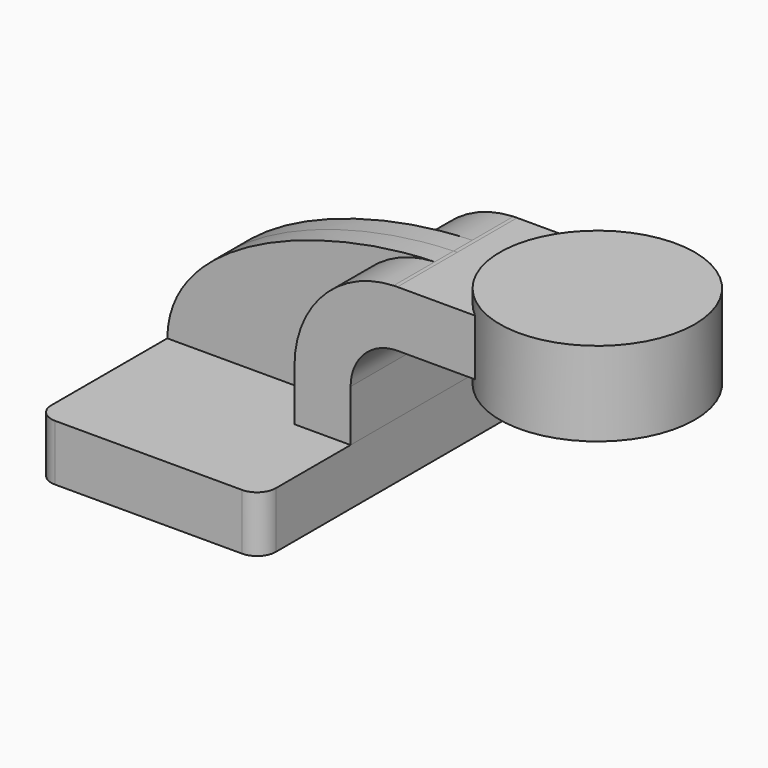
from build123d import *

# Parameters (mm, degrees)
F1_DEPTH = 63.5
F0_W     = 17.715069
F0_H     = 4.7752
F2_DEPTH = 25.4
F3_DEPTH = 7.9375
F5_R     = 6.35


with BuildPart() as f1:
    # F0 (on Front) → F1 (new body, symmetric)
    with BuildSketch(Plane.XZ):
        Polygon((-38.1, 9.525), (-38.1, -9.525), (38.1, -9.525), (38.1, 9.525), (19.05, 9.525), align=None)
    extrude(amount=F1_DEPTH, both=True)

    # F5
    f5_edges = [f1.edges().sort_by_distance(p)[0] for p in [
        (-38.1, -63.5, 0),
        (38.1, -63.5, 0),
        (-38.1, 63.5, 0),
        (38.1, 63.5, 0),
    ]]
    fillet(f5_edges, radius=F5_R)


with BuildPart() as f2:
    # F0 (on Front) → F2 (new body, symmetric)
    with BuildSketch(Plane.XZ):
        with Locations((92.671515, 40.4876)):
            Rectangle(F0_W, F0_H)
        with BuildLine():
            Line((19.05, 9.525), (38.1, 9.525))
            Line((38.1, 9.525), (38.1, 27.0002))
            ThreePointArc((38.1, 27.0002), (42.74968, 38.22552), (53.975, 42.8752))
            Line((53.975, 42.8752), (83.81398, 42.8752))
            Line((83.81398, 42.8752), (83.81398, 61.9252))
            Line((83.81398, 61.9252), (53.975, 61.9252))
            add(Edge.make_bspline(
                [(52.698431, 61.901862), (53.125853, 61.911883), (53.551409, 61.919664), (53.975, 61.9252)],
                knots=[104.759284, 104.759284, 104.759284, 104.759284, 105.94143, 105.94143, 105.94143, 105.94143], degree=3))
            ThreePointArc((52.698431, 61.901862), (28.832011, 51.240367), (19.05, 27.0002))
            Line((19.05, 27.0002), (19.05, 9.525))
        make_face()
    extrude(amount=F2_DEPTH, both=True)

    # F0 (on Front) → F4 (revolve)
    with BuildSketch(Plane.XZ):
        Polygon((101.529049, 66.675), (101.529049, 61.9252), (101.529049, 42.8752), (101.529049, 38.1), (134.61398, 38.1), (134.61398, 66.675), align=None)
    revolve(axis=Axis((101.529049, 0, 52.3875), (0, 0, 1)))


with BuildPart() as f3:
    # F0 (on Front) → F3 (new body, symmetric)
    with BuildSketch(Plane.XZ):
        with BuildLine():
            add(Edge.make_bspline(
                [(-38.1, 9.525), (-37.722898, 42.532326), (14.821118, 61.013806), (52.698431, 61.901862)],
                knots=[0, 0, 0, 0, 104.759284, 104.759284, 104.759284, 104.759284], degree=3))
            Line((-38.1, 9.525), (19.05, 9.525))
            Line((19.05, 9.525), (19.05, 27.0002))
            ThreePointArc((19.05, 27.0002), (28.832011, 51.240367), (52.698431, 61.901862))
        make_face()
    extrude(amount=F3_DEPTH, both=True)


solid = Compound([f1.part, f2.part, f3.part])
